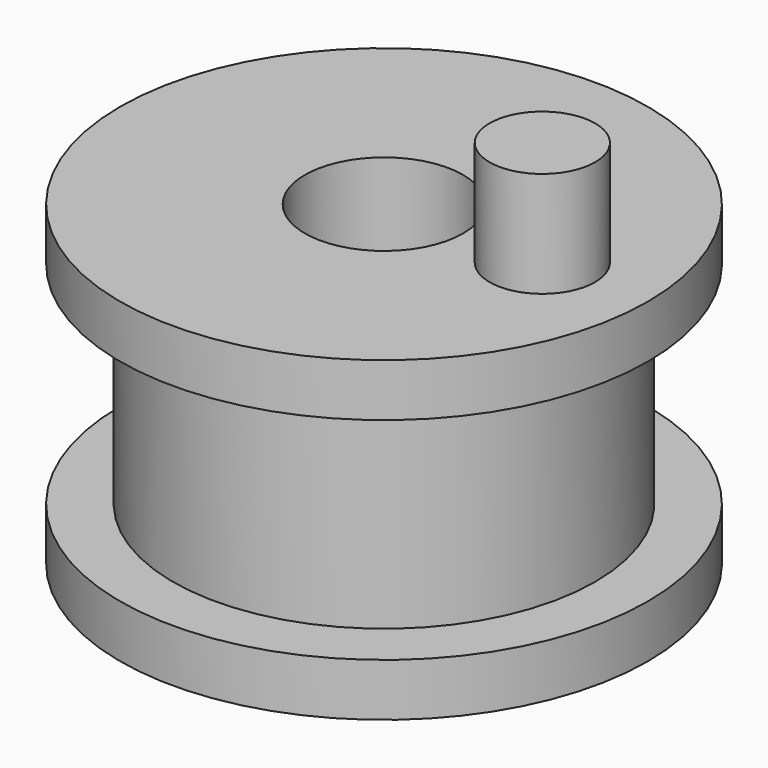
from build123d import *

# Parameters (mm, degrees)
F2_R     = 3.175
F3_DEPTH = 15.875


with BuildPart() as f1:
    # F0 (on Front) → F1 (revolve)
    with BuildSketch(Plane.XZ):
        Polygon((4.7625, 9.525), (4.7625, 0), (12.7, 0), (12.7, 6.35), (15.875, 6.35), (15.875, 9.525), align=None)
        Polygon((12.7, 0), (4.7625, 0), (4.7625, -9.525), (15.875, -9.525), (15.875, -6.35), (12.7, -6.35), align=None)
    revolve(axis=Axis((0, 0, -1.878798), (0, 0, -1)))

    # F2 (on Top) → F3 (join)
    with BuildSketch(Plane.XY):
        with Locations((9.525, 0)):
            Circle(F2_R)
    extrude(amount=F3_DEPTH)


solid = f1.part
